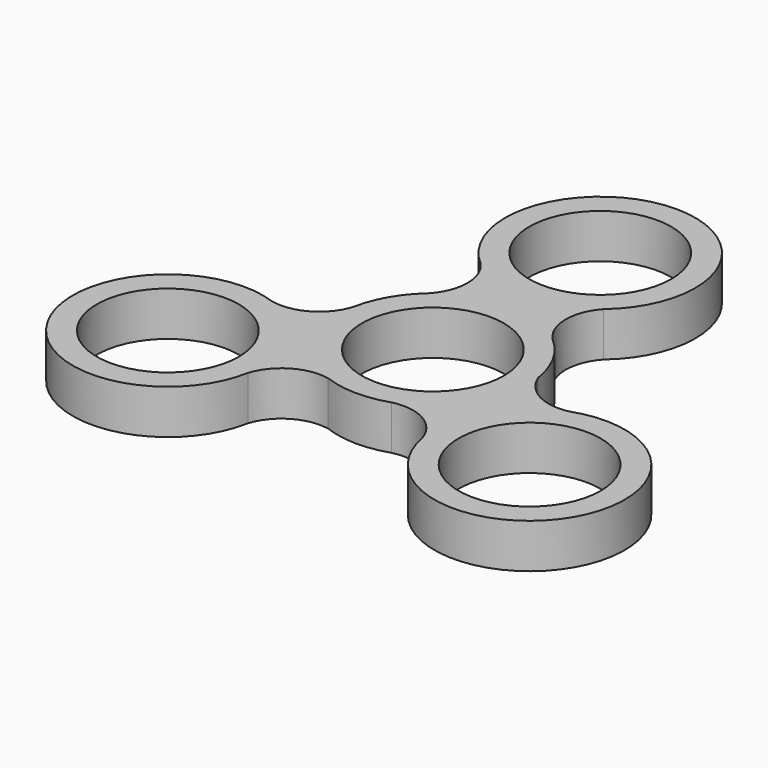
from build123d import *

# Parameters (mm, degrees)
F0_R     = 11.2
F1_DEPTH = 7
F2_DEPTH = 7


with BuildPart() as f1:
    # F0 (on Top) → F1 (new body)
    with BuildSketch(Plane.XY):
        with BuildLine():
            ThreePointArc((9.814137, 6.603833), (7.749518, 11.690361), (9.702716, 16.820705))
            ThreePointArc((9.702716, 16.820705), (0, 43.259993), (-9.702716, 16.820705))
            ThreePointArc((-9.702716, 16.820705), (-7.749518, 11.690361), (-9.814137, 6.603833))
            ThreePointArc((-9.814137, 6.603833), (-12.998756, 2.745467), (-14.737406, -1.945575))
            ThreePointArc((-14.737406, -1.945575), (-13.075563, -12.090494), (-5.272209, -18.782935))
            ThreePointArc((-5.272209, -18.782935), (-0.239573, -19.738094), (4.821001, -18.94416))
            ThreePointArc((4.821001, -18.94416), (12.802187, -12.556912), (14.837681, -2.539276))
            ThreePointArc((14.837681, -2.539276), (13.146374, 2.483071), (9.814137, 6.603833))
        make_face()
        with Locations((0, -4.740007)):
            Circle(F0_R, mode=Mode.SUBTRACT)
        with Locations((0, 28.259993)):
            Circle(F0_R, mode=Mode.SUBTRACT)
    extrude(amount=F1_DEPTH)

    # F0 (on Top) → F2 (join)
    with BuildSketch(Plane.XY):
        with BuildLine():
            ThreePointArc((9.814137, 6.603833), (7.749518, 11.690361), (9.702716, 16.820705))
            ThreePointArc((9.702716, 16.820705), (0, 43.259993), (-9.702716, 16.820705))
            ThreePointArc((-9.702716, 16.820705), (-7.749518, 11.690361), (-9.814137, 6.603833))
            ThreePointArc((-9.814137, 6.603833), (-12.998756, 2.745467), (-14.737406, -1.945575))
            ThreePointArc((-14.737406, -1.945575), (-13.075563, -12.090494), (-5.272209, -18.782935))
            ThreePointArc((-5.272209, -18.782935), (-0.239573, -19.738094), (4.821001, -18.94416))
            ThreePointArc((4.821001, -18.94416), (12.802187, -12.556912), (14.837681, -2.539276))
            ThreePointArc((14.837681, -2.539276), (13.146374, 2.483071), (9.814137, 6.603833))
        make_face()
        with Locations((0, -4.740007)):
            Circle(F0_R, mode=Mode.SUBTRACT)
        with Locations((0, 28.259993)):
            Circle(F0_R, mode=Mode.SUBTRACT)
        with BuildLine():
            ThreePointArc((23.427499, -7.150505), (18.281136, -6.430983), (14.837681, -2.539276))
            ThreePointArc((14.837681, -2.539276), (12.802187, -12.556912), (4.821001, -18.94416))
            ThreePointArc((4.821001, -18.94416), (10.258373, -19.699411), (13.724783, -23.956102))
            ThreePointArc((13.724783, -23.956102), (41.473236, -28.772947), (23.427499, -7.150505))
        make_face()
        with Locations((28.482855, -21.272947)):
            Circle(F0_R, mode=Mode.SUBTRACT)
        with BuildLine():
            ThreePointArc((-5.272209, -18.782935), (-13.075563, -12.090494), (-14.737406, -1.945575))
            ThreePointArc((-14.737406, -1.945575), (-18.16346, -6.243294), (-23.600001, -7.050911))
            ThreePointArc((-23.600001, -7.050911), (-41.645738, -28.673353), (-13.897285, -23.856507))
            ThreePointArc((-13.897285, -23.856507), (-10.554578, -19.671007), (-5.272209, -18.782935))
        make_face()
        with Locations((-28.655357, -21.173353)):
            Circle(F0_R, mode=Mode.SUBTRACT)
    extrude(amount=F2_DEPTH)


solid = f1.part
